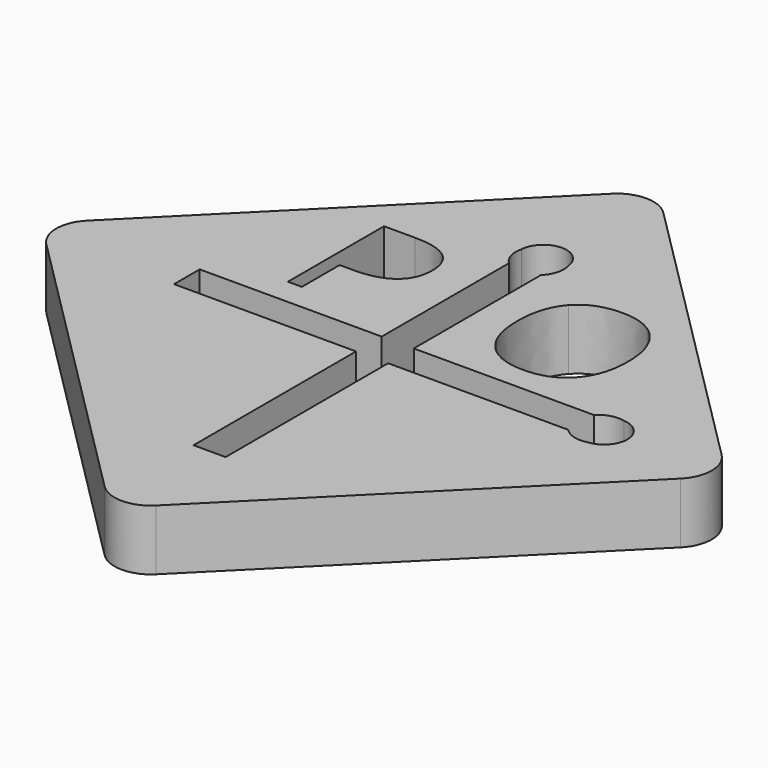
from build123d import *

# Parameters (mm, degrees)
F1_DEPTH = 2.5
F2_R     = 0.85
F3_DEPTH = 12.5


with BuildPart() as f1:
    # F0 (on Top) → F1 (new body)
    with BuildSketch(Plane.XY):
        with BuildLine():
            Line((13.081475452, -13.081475452), (1.0606601718, -1.0606601718))
            ThreePointArc((1.0606601718, -1.0606601718), (0, -0.6213203436), (-1.0606601718, -1.0606601718))
            Line((-1.0606601718, -1.0606601718), (-13.081475452, -13.081475452))
            ThreePointArc((-13.081475452, -13.081475452), (-13.5208152802, -14.1421356237), (-13.081475452, -15.2027957955))
            Line((-13.081475452, -15.2027957955), (-1.0606601718, -27.2236110757))
            ThreePointArc((-1.0606601718, -27.2236110757), (0, -27.6629509039), (1.0606601718, -27.2236110757))
            Line((1.0606601718, -27.2236110757), (13.081475452, -15.2027957955))
            ThreePointArc((13.081475452, -15.2027957955), (13.5208152802, -14.1421356237), (13.081475452, -13.081475452))
        make_face()
        with BuildLine():
            add(Edge.make_bspline(
                [(-4.0900345447, -7.4211291907), (-2.2323956558, -7.4211291907), (-2.2323956558, -8.8653566212)],
                knots=[0, 0, 0, 1, 1, 1], degree=2))
            add(Edge.make_bspline(
                [(-2.2323956558, -8.8653566212), (-2.2323956558, -9.6183948157), (-2.7461760377, -10.0236682532)],
                knots=[0, 0, 0, 1, 1, 1], degree=2))
            add(Edge.make_bspline(
                [(-2.7461760377, -10.0236682532), (-3.2599564197, -10.4289416907), (-4.2159026002, -10.4289416907)],
                knots=[0, 0, 0, 1, 1, 1], degree=2))
            Line((-4.2159026002, -10.4289416907), (-4.7996699613, -10.4289416907))
            Line((-4.7996699613, -10.4289416907), (-4.7996699613, -12.3788114823))
            Line((-4.7996699613, -12.3788114823), (-5.3758418363, -12.3788114823))
            Line((-5.3758418363, -12.3788114823), (-5.3758418363, -7.4211291907))
            Line((-5.3758418363, -7.4211291907), (-4.0900345447, -7.4211291907))
        make_face(mode=Mode.SUBTRACT)
        with BuildLine():
            Line((-8.1334756687, -14.8039748892), (-8.1334756687, -13.4802963582))
            Line((-8.1334756687, -13.4802963582), (-0.6236797201, -13.4802963582))
            Line((-0.6236797201, -13.4802963582), (-0.6236797201, -6.9198086858))
            ThreePointArc((-0.6236797201, -6.9198086858), (-0.9032194318, -6.4583786209), (-0.9135835525, -5.9189782686))
            ThreePointArc((-0.9135835525, -5.9189782686), (0.0168397474, -5.0141534426), (0.9868078824, -5.876451129))
            ThreePointArc((0.9868078824, -5.876451129), (0.9900106564, -6.4384308628), (0.6999988109, -6.9198086858))
            Line((0.6999988109, -6.9198086858), (0.6999988109, -13.4802963582))
            Line((0.6999988109, -13.4802963582), (8.1334756687, -13.4802963582))
            ThreePointArc((8.1334756687, -13.4802963582), (8.5949057336, -13.2007566465), (9.134306086, -13.1903925258))
            ThreePointArc((9.134306086, -13.1903925258), (10.0391309119, -14.1208158258), (9.1768332255, -15.0907839607))
            ThreePointArc((9.1768332255, -15.0907839607), (8.6148534917, -15.0939867347), (8.1334756687, -14.8039748892))
            Line((8.1334756687, -14.8039748892), (0.6999988109, -14.8039748892))
            Line((0.6999988109, -14.8039748892), (0.6999988109, -23.1867600232))
            Line((0.6999988109, -23.1867600232), (-0.6236797201, -23.1867600232))
            Line((-0.6236797201, -23.1867600232), (-0.6236797201, -14.8039748892))
            Line((-0.6236797201, -14.8039748892), (-8.1334756687, -14.8039748892))
        make_face(mode=Mode.SUBTRACT)
        with BuildLine():
            add(Edge.make_bspline(
                [(6.0662657395, -8.0211739904), (6.6663091423, -8.6993423932), (6.6663091423, -9.8929187821)],
                knots=[0, 0, 0, 1, 1, 1], degree=2))
            add(Edge.make_bspline(
                [(6.6663091423, -9.8929187821), (6.6663091423, -11.0832399627), (6.0640956006, -11.7652061085)],
                knots=[0, 0, 0, 1, 1, 1], degree=2))
            add(Edge.make_bspline(
                [(6.0640956006, -11.7652061085), (5.4618820589, -12.4471722543), (4.3909185173, -12.4471722543)],
                knots=[0, 0, 0, 1, 1, 1], degree=2))
            add(Edge.make_bspline(
                [(4.3909185173, -12.4471722543), (3.2960834478, -12.4471722543), (2.7009228576, -11.7771418724)],
                knots=[0, 0, 0, 1, 1, 1], degree=2))
            add(Edge.make_bspline(
                [(2.7009228576, -11.7771418724), (2.1057622673, -11.1071114904), (2.1057622673, -9.8864083654)],
                knots=[0, 0, 0, 1, 1, 1], degree=2))
            add(Edge.make_bspline(
                [(2.1057622673, -9.8864083654), (2.1057622673, -8.6754708654), (2.7025504617, -8.0092382265)],
                knots=[0, 0, 0, 1, 1, 1], degree=2))
            add(Edge.make_bspline(
                [(2.7025504617, -8.0092382265), (3.2993386562, -7.3430055877), (4.3974289339, -7.3430055877)],
                knots=[0, 0, 0, 1, 1, 1], degree=2))
            add(Edge.make_bspline(
                [(4.3974289339, -7.3430055877), (5.4662223367, -7.3430055877), (6.0662657395, -8.0211739904)],
                knots=[0, 0, 0, 1, 1, 1], degree=2))
        make_face(mode=Mode.SUBTRACT)
    extrude(amount=F1_DEPTH)

    # F2 (on Right) → F3 (cut, symmetric)
    with BuildSketch(Plane.YZ):
        with Locations((-2.4908210296, 1.292226194)):
            Circle(F2_R)
    extrude(amount=F3_DEPTH, both=True, mode=Mode.SUBTRACT)


solid = f1.part
